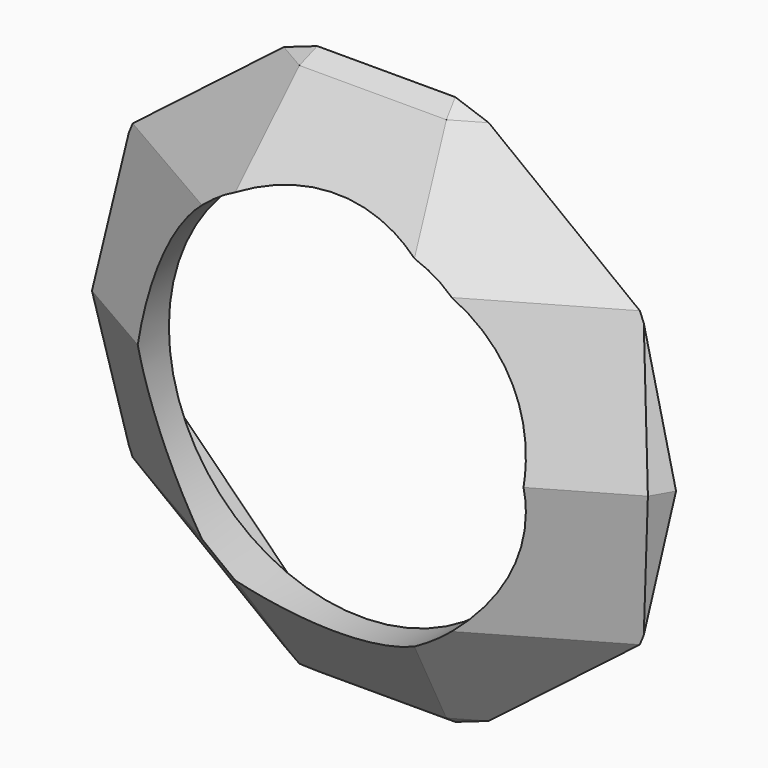
from build123d import *

# Parameters (mm, degrees)
F2_DEPTH  = 13.5
F2_TAPER  = -55
F4_DEPTH  = 19
F4_TAPER  = -33
F6_DEPTH  = 24
F6_TAPER  = -11.5
F8_DEPTH  = 24
F8_TAPER  = 11.5
F10_DEPTH = 19
F10_TAPER = 33
F12_DEPTH = 13.5
F12_TAPER = 55
F17_COUNT = 12
F17_ANGLE = 330
F19_W     = 150.1999571919
F19_H     = 155.7629220188
F20_DEPTH = 104.0525976479
F21_R     = 31.5
F22_DEPTH = 25
F23_R     = 31.5
F24_DEPTH = 5


with BuildPart() as f2:
    # F1 (on Top) → F2 (new body)
    with BuildSketch(Plane.XY):
        Polygon((18.667295593, -18.667295593), (25.5, -6.832704407), (25.5, 6.832704407), (18.667295593, 18.667295593), (6.832704407, 25.5), (-6.832704407, 25.5), (-18.667295593, 18.667295593), (-25.5, 6.832704407), (-25.5, -6.832704407), (-18.667295593, -18.667295593), (-6.832704407, -25.5), (6.832704407, -25.5), align=None)
    extrude(amount=F2_DEPTH, taper=F2_TAPER)

    # F3 (on face) → F4 (join)
    with BuildSketch(Plane.XY.offset(13.5)):
        Polygon((11.9987643256, -44.779998091), (32.7812337655, -32.7812337655), (44.779998091, -11.9987643256), (44.779998091, 11.9987643256), (32.7812337655, 32.7812337655), (11.9987643256, 44.779998091), (-11.9987643256, 44.779998091), (-32.7812337655, 32.7812337655), (-44.779998091, 11.9987643256), (-44.779998091, -11.9987643256), (-32.7812337655, -32.7812337655), (-11.9987643256, -44.779998091), align=None)
    extrude(amount=F4_DEPTH, taper=F4_TAPER)

    # F5 (on face) → F6 (join)
    with BuildSketch(Plane.XY.offset(32.5)):
        Polygon((15.3049208885, -57.1187423618), (41.8138214733, -41.8138214733), (57.1187423618, -15.3049208885), (57.1187423618, 15.3049208885), (41.8138214733, 41.8138214733), (15.3049208885, 57.1187423618), (-15.3049208885, 57.1187423618), (-41.8138214733, 41.8138214733), (-57.1187423618, 15.3049208885), (-57.1187423618, -15.3049208885), (-41.8138214733, -41.8138214733), (-15.3049208885, -57.1187423618), align=None)
    extrude(amount=F6_DEPTH, taper=F6_TAPER)

    # F7 (on face) → F8 (join)
    with BuildSketch(Plane.XY.offset(56.5)):
        Polygon((-16.6132779924, -62.0015975479), (16.6132779924, -62.0015975479), (45.3883195555, -45.3883195555), (62.0015975479, -16.6132779924), (62.0015975479, 16.6132779924), (45.3883195555, 45.3883195555), (16.6132779924, 62.0015975479), (-16.6132779924, 62.0015975479), (-45.3883195555, 45.3883195555), (-62.0015975479, 16.6132779924), (-62.0015975479, -16.6132779924), (-45.3883195555, -45.3883195555), align=None)
    extrude(amount=F8_DEPTH, taper=F8_TAPER)

    # F9 (on face) → F10 (join)
    with BuildSketch(Plane.XY.offset(80.5)):
        Polygon((15.3049208885, -57.1187423618), (41.8138214733, -41.8138214733), (57.1187423618, -15.3049208885), (57.1187423618, 15.3049208885), (41.8138214733, 41.8138214733), (15.3049208885, 57.1187423618), (-15.3049208885, 57.1187423618), (-41.8138214733, 41.8138214733), (-57.1187423618, 15.3049208885), (-57.1187423618, -15.3049208885), (-41.8138214733, -41.8138214733), (-15.3049208885, -57.1187423618), align=None)
    extrude(amount=F10_DEPTH, taper=F10_TAPER)

    # F11 (on face) → F12 (join)
    with BuildSketch(Plane.XY.offset(99.5)):
        Polygon((-32.7812337655, -32.7812337655), (-11.9987643256, -44.779998091), (11.9987643256, -44.779998091), (32.7812337655, -32.7812337655), (44.779998091, -11.9987643256), (44.779998091, 11.9987643256), (32.7812337655, 32.7812337655), (11.9987643256, 44.779998091), (-11.9987643256, 44.779998091), (-32.7812337655, 32.7812337655), (-44.779998091, 11.9987643256), (-44.779998091, -11.9987643256), align=None)
    extrude(amount=F12_DEPTH, taper=F12_TAPER)


with BuildPart() as f16:
    # F15 (on 3pt) → F16 (new body, up to the next surface of F2)
    with BuildSketch(Plane(origin=(12.3175443523, -21.3346126427, 113.1882453996), x_dir=(0.9943304543, 0.0196958746, -0.1044941158), z_dir=(-0.1063341323, 0.1841761198, -0.9771244594))):
        Polygon((6.3859567143, -2.5862935324), (-5.5161138048, 4.1281770657), (-12.3877774228, -21.9585741432), align=None)
    extrude(until=Until.NEXT, target=f2.part)


with BuildPart() as f17_1:
    # F17: instance of F16
    add(f16.part.rotate(Axis((0, 0, 87.5846954226), (0, 0, 1)), 1 * F17_ANGLE / (F17_COUNT - 1)))


with BuildPart() as f17_2:
    # F17: instance of F16
    add(f16.part.rotate(Axis((0, 0, 87.5846954226), (0, 0, 1)), 2 * F17_ANGLE / (F17_COUNT - 1)))


with BuildPart() as f17_3:
    # F17: instance of F16
    add(f16.part.rotate(Axis((0, 0, 87.5846954226), (0, 0, 1)), 3 * F17_ANGLE / (F17_COUNT - 1)))


with BuildPart() as f17_4:
    # F17: instance of F16
    add(f16.part.rotate(Axis((0, 0, 87.5846954226), (0, 0, 1)), 4 * F17_ANGLE / (F17_COUNT - 1)))


with BuildPart() as f17_5:
    # F17: instance of F16
    add(f16.part.rotate(Axis((0, 0, 87.5846954226), (0, 0, 1)), 5 * F17_ANGLE / (F17_COUNT - 1)))


with BuildPart() as f17_6:
    # F17: instance of F16
    add(f16.part.rotate(Axis((0, 0, 87.5846954226), (0, 0, 1)), 6 * F17_ANGLE / (F17_COUNT - 1)))


with BuildPart() as f17_7:
    # F17: instance of F16
    add(f16.part.rotate(Axis((0, 0, 87.5846954226), (0, 0, 1)), 7 * F17_ANGLE / (F17_COUNT - 1)))


with BuildPart() as f17_8:
    # F17: instance of F16
    add(f16.part.rotate(Axis((0, 0, 87.5846954226), (0, 0, 1)), 8 * F17_ANGLE / (F17_COUNT - 1)))


with BuildPart() as f17_9:
    # F17: instance of F16
    add(f16.part.rotate(Axis((0, 0, 87.5846954226), (0, 0, 1)), 9 * F17_ANGLE / (F17_COUNT - 1)))


with BuildPart() as f17_10:
    # F17: instance of F16
    add(f16.part.rotate(Axis((0, 0, 87.5846954226), (0, 0, 1)), 10 * F17_ANGLE / (F17_COUNT - 1)))


with BuildPart() as f17_11:
    # F17: instance of F16
    add(f16.part.rotate(Axis((0, 0, 87.5846954226), (0, 0, 1)), 11 * F17_ANGLE / (F17_COUNT - 1)))


with BuildPart() as f20_tool:
    # F19 (on offset) → F20 (new body, through all)
    with BuildSketch(Plane.XZ.offset(42.05)):
        with Locations((3.019284457, 52.1549973637)):
            Rectangle(F19_W, F19_H)
    extrude(amount=-F20_DEPTH)


with BuildPart() as f2_1:
    add(f2.part)

    # F20: cut by f20_tool
    add(f20_tool.part, mode=Mode.SUBTRACT)

    # F21 (on face) → F22 (cut)
    with BuildSketch(Plane(origin=(0, -42.05, 0), x_dir=(-1, 0, 0), z_dir=(0, 1, 0))):
        with Locations((0, 56.5)):
            Circle(F21_R)
    extrude(amount=-F22_DEPTH, mode=Mode.SUBTRACT)

    # F23 (on face) → F24 (cut)
    with BuildSketch(Plane(origin=(0, -42.05, 0), x_dir=(-1, 0, 0), z_dir=(0, 1, 0))):
        Polygon((13, 92), (-13, 92), (-35.5, 69.5), (-35.5, 43.5), (-13, 21), (13, 21), (35.5, 43.5), (35.5, 56.5), (35.5, 69.5), align=None)
        with Locations((0, 56.5)):
            Circle(F23_R, mode=Mode.SUBTRACT)
    extrude(amount=-F24_DEPTH, mode=Mode.SUBTRACT)


with BuildPart() as f16_1:
    add(f16.part)

    # F20: cut by f20_tool
    add(f20_tool.part, mode=Mode.SUBTRACT)


with BuildPart() as f17_1_1:
    add(f17_1.part)

    # F20: cut by f20_tool
    add(f20_tool.part, mode=Mode.SUBTRACT)


with BuildPart() as f17_2_1:
    add(f17_2.part)

    # F20: cut by f20_tool
    add(f20_tool.part, mode=Mode.SUBTRACT)


with BuildPart() as f17_3_1:
    add(f17_3.part)

    # F20: cut by f20_tool
    add(f20_tool.part, mode=Mode.SUBTRACT)


with BuildPart() as f17_4_1:
    add(f17_4.part)

    # F20: cut by f20_tool
    add(f20_tool.part, mode=Mode.SUBTRACT)


with BuildPart() as f17_5_1:
    add(f17_5.part)

    # F20: cut by f20_tool
    add(f20_tool.part, mode=Mode.SUBTRACT)


with BuildPart() as f17_6_1:
    add(f17_6.part)

    # F20: cut by f20_tool
    add(f20_tool.part, mode=Mode.SUBTRACT)


with BuildPart() as f17_7_1:
    add(f17_7.part)

    # F20: cut by f20_tool
    add(f20_tool.part, mode=Mode.SUBTRACT)


with BuildPart() as f17_8_1:
    add(f17_8.part)

    # F20: cut by f20_tool
    add(f20_tool.part, mode=Mode.SUBTRACT)


with BuildPart() as f17_9_1:
    add(f17_9.part)

    # F20: cut by f20_tool
    add(f20_tool.part, mode=Mode.SUBTRACT)


with BuildPart() as f17_10_1:
    add(f17_10.part)

    # F20: cut by f20_tool
    add(f20_tool.part, mode=Mode.SUBTRACT)


with BuildPart() as f17_11_1:
    add(f17_11.part)

    # F20: cut by f20_tool
    add(f20_tool.part, mode=Mode.SUBTRACT)


solid = f2_1.part
